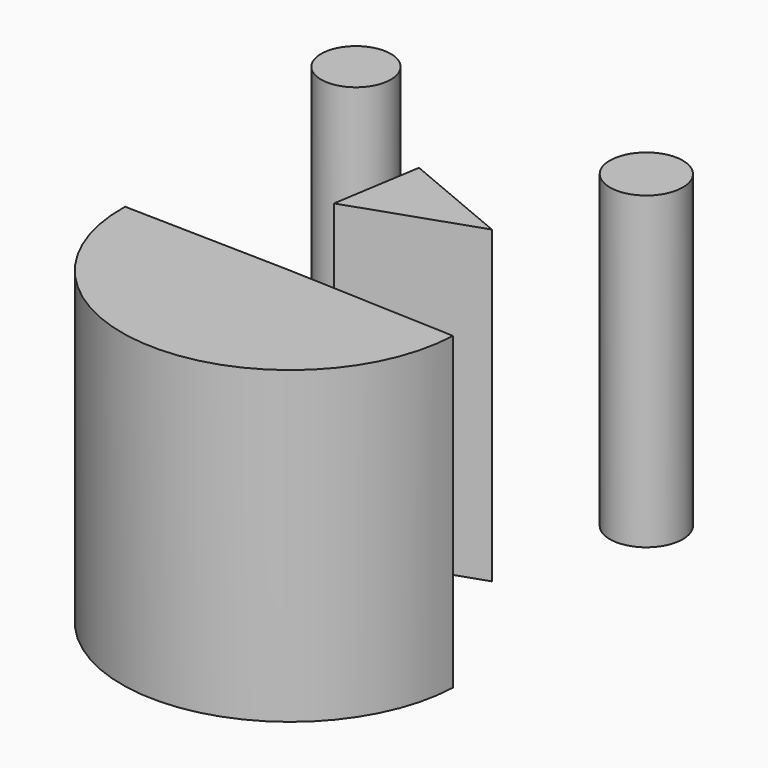
from build123d import *

# Parameters (mm, degrees)
F0_R     = 2.860279
F0_R_2   = 2.99003
F1_DEPTH = 25.4


with BuildPart() as f1:
    # F0 (on Top) → F1 (new body)
    with BuildSketch(Plane.XY):
        with Locations((-52.855972, 43.707822)):
            Circle(F0_R)
        with Locations((-29.041743, 43.707822)):
            Circle(F0_R_2)
        Polygon((-31.945918, 31.51029), (-40.948857, 35.285715), (-42.110525, 28.025281), align=None)
        with BuildLine():
            Line((-38.47635, 19.00251), (-52.275136, 19.312758))
            ThreePointArc((-52.275136, 19.312758), (-38.911994, 5.207113), (-24.685482, 18.441506))
            Line((-24.685482, 18.441506), (-38.47635, 19.00251))
        make_face()
    extrude(amount=F1_DEPTH)


solid = f1.part
